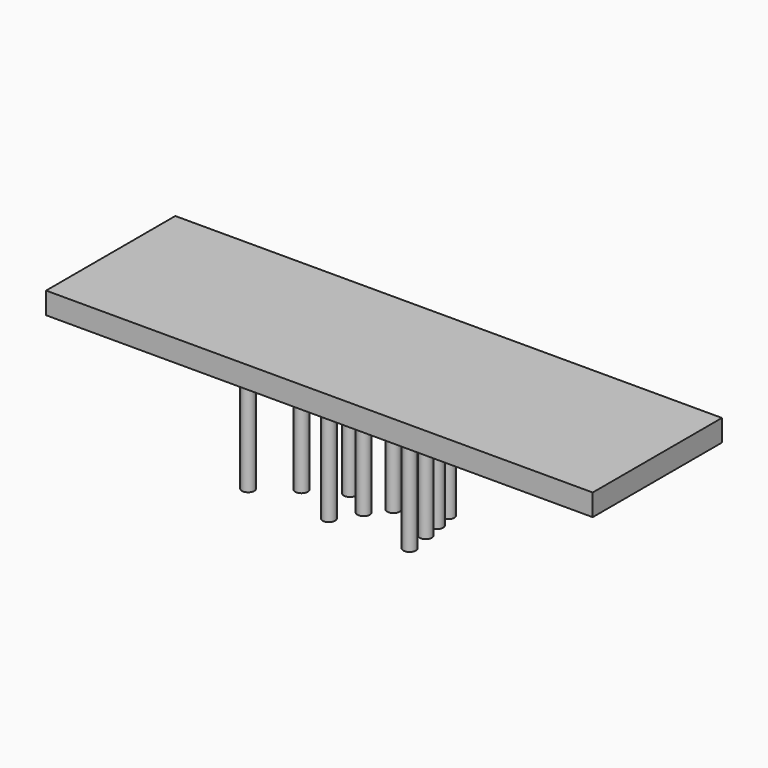
from build123d import *

# Parameters (mm, degrees)
F0_W     = 558.8
F0_H     = 165.1
F1_DEPTH = 22.225
F2_R     = 6.35
F3_DEPTH = 101.6
F4_DEPTH = 114.3
F5_DEPTH = 127
F6_DEPTH = 139.7


with BuildPart() as f1:
    # F0 (on Top) → F1 (new body)
    with BuildSketch(Plane.XY):
        with Locations((5.566943, 0)):
            Rectangle(F0_W, F0_H)
    extrude(amount=F1_DEPTH)

    # F2 (on face) → F5 (join)
    with BuildSketch(Plane(origin=(0, 0, 0), x_dir=(1, 0, 0), z_dir=(0, 0, -1))):
        with Locations((-44.45, -19.05)):
            Circle(F2_R)
        with Locations((0, -19.05)):
            Circle(F2_R)
        with Locations((44.45, -19.05)):
            Circle(F2_R)
    extrude(amount=F5_DEPTH)


with BuildPart() as f3:
    # F2 (on face) → F3 (new body)
    with BuildSketch(Plane(origin=(0, 0, 0), x_dir=(1, 0, 0), z_dir=(0, 0, -1))):
        with Locations((-82.55, 63.5)):
            Circle(F2_R)
        with Locations((0, 63.5)):
            Circle(F2_R)
        with Locations((82.55, 63.5)):
            Circle(F2_R)
    extrude(amount=F3_DEPTH)


with BuildPart() as f4:
    # F2 (on face) → F4 (new body)
    with BuildSketch(Plane(origin=(0, 0, 0), x_dir=(1, 0, 0), z_dir=(0, 0, -1))):
        with Locations((-63.5, 19.05)):
            Circle(F2_R)
        with Locations((63.5, 19.05)):
            Circle(F2_R)
        with Locations((0, 19.05)):
            Circle(F2_R)
    extrude(amount=F4_DEPTH)


with BuildPart() as f6:
    # F2 (on face) → F6 (new body)
    with BuildSketch(Plane(origin=(0, 0, 0), x_dir=(1, 0, 0), z_dir=(0, 0, -1))):
        with Locations((25.4, -57.15)):
            Circle(F2_R)
        with Locations((0, -57.15)):
            Circle(F2_R)
        with Locations((-25.4, -57.15)):
            Circle(F2_R)
    extrude(amount=F6_DEPTH)


solid = Compound([f1.part, f3.part, f4.part, f6.part])
